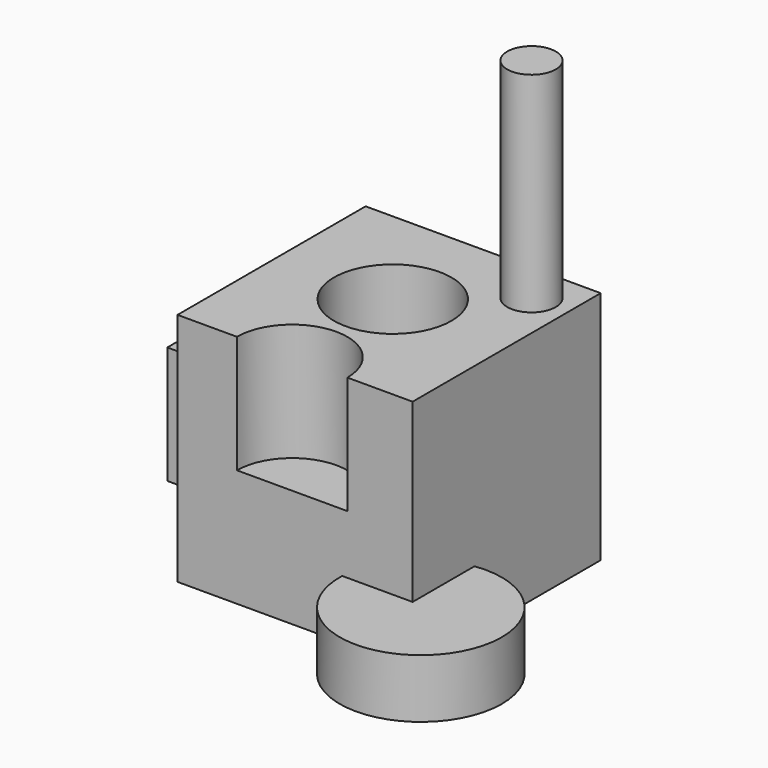
from build123d import *

# Parameters (mm, degrees)
F0_W     = 100
F0_H     = 100
F0_R     = 25
F1_DEPTH = 100
F2_R     = 23.481347
F3_DEPTH = 50
F4_W     = 50
F4_H     = 50
F5_DEPTH = 25
F6_R     = 34.48111
F7_DEPTH = 25
F8_R     = 10.324712
F9_DEPTH = 89


with BuildPart() as f1:
    # F0 (on Top) → F1 (new body)
    with BuildSketch(Plane.XY):
        with Locations((1.244521, -3.481347)):
            Rectangle(F0_W, F0_H)
        Circle(F0_R, mode=Mode.SUBTRACT)
    extrude(amount=F1_DEPTH)

    # F2 (on face) → F3 (cut)
    with BuildSketch(Plane.XY.offset(100)):
        with Locations((0, -53.481347)):
            Circle(F2_R)
    extrude(amount=-F3_DEPTH, mode=Mode.SUBTRACT)

    # F4 (on face) → F5 (join)
    with BuildSketch(Plane(origin=(-48.755479, 0, 0), x_dir=(0, -1, 0), z_dir=(-1, 0, 0))):
        with Locations((2.66633, 44.168345)):
            Rectangle(F4_W, F4_H)
    extrude(amount=F5_DEPTH)

    # F6 (on Top) → F7 (join)
    with BuildSketch(Plane.XY):
        with Locations((55.731513, -54.766722)):
            Circle(F6_R)
    extrude(amount=F7_DEPTH)

    # F8 (on face) → F9 (join)
    with BuildSketch(Plane.XY.offset(100)):
        with Locations((35.525516, 29.389268)):
            Circle(F8_R)
    extrude(amount=F9_DEPTH)


solid = f1.part
